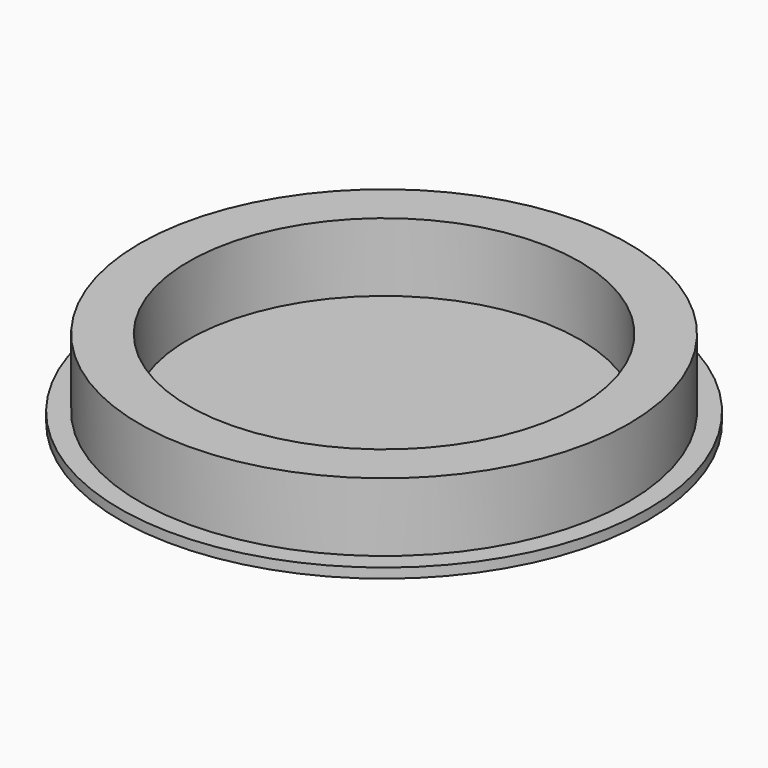
from build123d import *

# Parameters (mm, degrees)
F0_R     = 27
F0_R_2   = 25
F1_DEPTH = 1
F2_DEPTH = 8
F3_R     = 20
F4_DEPTH = 7


with BuildPart() as f1:
    # F0 (on Top) → F1 (new body)
    with BuildSketch(Plane.XY):
        Circle(F0_R)
        Circle(F0_R_2, mode=Mode.SUBTRACT)
        Circle(F0_R_2)
    extrude(amount=F1_DEPTH)

    # F0 (on Top) → F2 (join)
    with BuildSketch(Plane.XY):
        Circle(F0_R_2)
    extrude(amount=F2_DEPTH)

    # F3 (on face) → F4 (cut)
    with BuildSketch(Plane.XY.offset(8)):
        Circle(F3_R)
    extrude(amount=-F4_DEPTH, mode=Mode.SUBTRACT)


solid = f1.part
